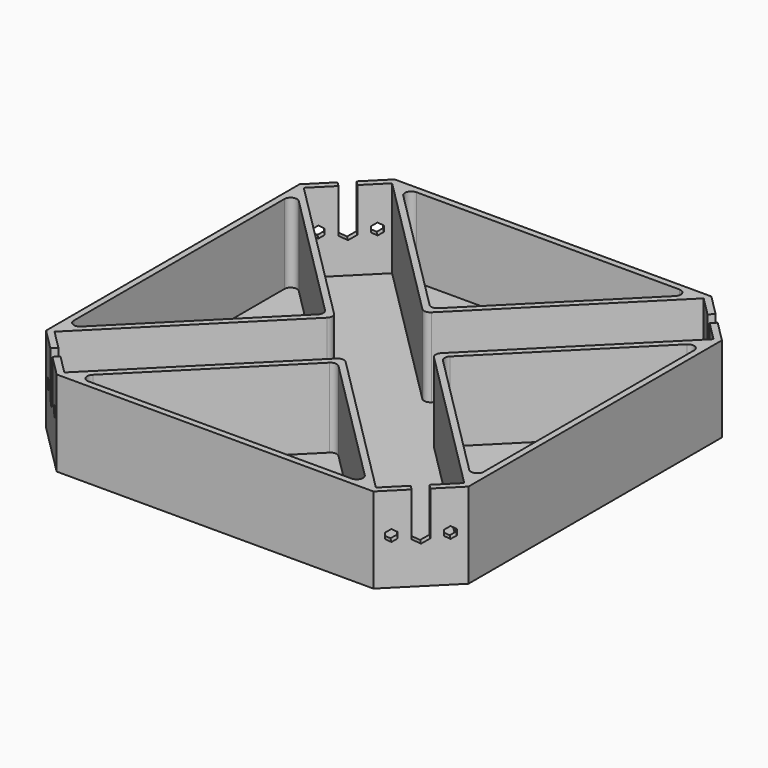
from build123d import *

# Parameters (mm, degrees)
F1_DEPTH  = 1.524
F2_DEPTH  = 19.05
F3_R      = 1.524
F4_R      = 1.524
F5_R      = 1.524
F6_R      = 1.524
F9_DEPTH  = 127
F12_DEPTH = 127
F13_R     = 1.778
F14_DEPTH = 1.524


with BuildPart() as f1:
    # F0 (on Top) → F1 (new body)
    with BuildSketch(Plane.XY):
        Polygon((50.8, 38.1), (38.1, 50.8), (-38.1, 50.8), (-50.8, 38.1), (-50.8, -38.1), (-38.1, -50.8), (38.1, -50.8), (50.8, -38.1), align=None)
        Polygon((-49.276, 35.3134770619), (-49.276, 37.4687385309), (-37.4687385309, 49.276), (-35.3134770619, 49.276), (35.3134770619, 49.276), (37.4687385309, 49.276), (49.276, 37.4687385309), (49.276, 35.3134770619), (49.276, -35.3134770619), (49.276, -37.4687385309), (37.4687385309, -49.276), (35.3134770619, -49.276), (-35.3134770619, -49.276), (-37.4687385309, -49.276), (-49.276, -37.4687385309), (-49.276, -35.3134770619), align=None, mode=Mode.SUBTRACT)
        Polygon((-13.9625229381, 0), (-49.276, 35.3134770619), (-49.276, -35.3134770619), align=None)
        Polygon((-11.8072614691, 0), (-49.276, 37.4687385309), (-49.276, 35.3134770619), (-13.9625229381, 0), (-49.276, -35.3134770619), (-49.276, -37.4687385309), align=None)
        Polygon((-37.4687385309, 49.276), (-49.276, 37.4687385309), (-11.8072614691, 0), (-49.276, -37.4687385309), (-37.4687385309, -49.276), (0, -11.8072614691), (37.4687385309, -49.276), (49.276, -37.4687385309), (11.8072614691, 0), (49.276, 37.4687385309), (37.4687385309, 49.276), (0, 11.8072614691), align=None)
        Polygon((-35.3134770619, 49.276), (-37.4687385309, 49.276), (0, 11.8072614691), (37.4687385309, 49.276), (35.3134770619, 49.276), (0, 13.9625229381), align=None)
        Polygon((49.276, 35.3134770619), (49.276, 37.4687385309), (11.8072614691, 0), (49.276, -37.4687385309), (49.276, -35.3134770619), (13.9625229381, 0), align=None)
        Polygon((35.3134770619, 49.276), (-35.3134770619, 49.276), (0, 13.9625229381), align=None)
        Polygon((0, -11.8072614691), (-37.4687385309, -49.276), (-35.3134770619, -49.276), (0, -13.9625229381), (35.3134770619, -49.276), (37.4687385309, -49.276), align=None)
        Polygon((0, -13.9625229381), (-35.3134770619, -49.276), (35.3134770619, -49.276), align=None)
        Polygon((49.276, -35.3134770619), (49.276, 35.3134770619), (13.9625229381, 0), align=None)
    extrude(amount=-F1_DEPTH)

    # F0 (on Top) → F2 (join)
    with BuildSketch(Plane.XY):
        Polygon((50.8, 38.1), (38.1, 50.8), (-38.1, 50.8), (-50.8, 38.1), (-50.8, -38.1), (-38.1, -50.8), (38.1, -50.8), (50.8, -38.1), align=None)
        Polygon((-49.276, 35.3134770619), (-49.276, 37.4687385309), (-37.4687385309, 49.276), (-35.3134770619, 49.276), (35.3134770619, 49.276), (37.4687385309, 49.276), (49.276, 37.4687385309), (49.276, 35.3134770619), (49.276, -35.3134770619), (49.276, -37.4687385309), (37.4687385309, -49.276), (35.3134770619, -49.276), (-35.3134770619, -49.276), (-37.4687385309, -49.276), (-49.276, -37.4687385309), (-49.276, -35.3134770619), align=None, mode=Mode.SUBTRACT)
        Polygon((-11.8072614691, 0), (-49.276, 37.4687385309), (-49.276, 35.3134770619), (-13.9625229381, 0), (-49.276, -35.3134770619), (-49.276, -37.4687385309), align=None)
        Polygon((-35.3134770619, 49.276), (-37.4687385309, 49.276), (0, 11.8072614691), (37.4687385309, 49.276), (35.3134770619, 49.276), (0, 13.9625229381), align=None)
        Polygon((0, -11.8072614691), (-37.4687385309, -49.276), (-35.3134770619, -49.276), (0, -13.9625229381), (35.3134770619, -49.276), (37.4687385309, -49.276), align=None)
        Polygon((49.276, 35.3134770619), (49.276, 37.4687385309), (11.8072614691, 0), (49.276, -37.4687385309), (49.276, -35.3134770619), (13.9625229381, 0), align=None)
    extrude(amount=F2_DEPTH)

    # F3
    f3_edges = [f1.edges().sort_by_distance(p)[0] for p in [
        (-35.313477, 49.276, 9.525),
        (35.313477, 49.276, 9.525),
        (0, 13.962523, 9.525),
        (0, 11.807261, 9.525),
    ]]
    fillet(f3_edges, radius=F3_R)

    # F4
    f4_edges = [f1.edges().sort_by_distance(p)[0] for p in [
        (-13.962523, 0, 9.525),
        (-11.807261, 0, 9.525),
        (-49.276, 35.313477, 9.525),
        (-49.276, -35.313477, 9.525),
    ]]
    fillet(f4_edges, radius=F4_R)

    # F5
    f5_edges = [f1.edges().sort_by_distance(p)[0] for p in [
        (35.313477, -49.276, 9.525),
        (-35.313477, -49.276, 9.525),
        (0, -13.962523, 9.525),
        (0, -11.807261, 9.525),
    ]]
    fillet(f5_edges, radius=F5_R)

    # F6
    f6_edges = [f1.edges().sort_by_distance(p)[0] for p in [
        (49.276, -35.313477, 9.525),
        (49.276, 35.313477, 9.525),
        (13.962523, 0, 9.525),
        (11.807261, 0, 9.525),
    ]]
    fillet(f6_edges, radius=F6_R)

    # F8 (on offset) → F9 (cut)
    with BuildSketch(Plane(origin=(-44.45, -44.45, 0), x_dir=(0.7071067812, -0.7071067812, 0), z_dir=(-0.7071067812, -0.7071067812, 0))):
        Polygon((-4.3955561211, 8.8357592486), (-4.3955561211, 10.2142407514), (-5.5893561211, 10.9034815027), (-6.7831561211, 10.2142407514), (-6.7831561211, 8.8357592486), (-5.5893561211, 8.1465184973), align=None)
        Polygon((1.7766438789, 8.4984712214), (1.7766438789, 10.5515287786), (-0.0013561211, 11.5780575572), (-1.7793561211, 10.5515287786), (-1.7793561211, 8.4984712214), (-0.0013561211, 7.4719424428), align=None)
        Polygon((-0.0013561211, 11.5780575572), (1.7766438789, 10.5515287786), (1.7766438789, 19.05), (-1.7793561211, 19.05), (-1.7793561211, 10.5515287786), align=None)
        Polygon((6.7804438789, 8.8357592486), (6.7804438789, 10.2142407514), (5.5866438789, 10.9034815027), (4.3928438789, 10.2142407514), (4.3928438789, 8.8357592486), (5.5866438789, 8.1465184973), align=None)
    extrude(amount=-F9_DEPTH, mode=Mode.SUBTRACT)

    # F11 (on offset) → F12 (cut)
    with BuildSketch(Plane(origin=(44.45, -44.45, 0), x_dir=(0.7071067812, 0.7071067812, 0), z_dir=(0.7071067812, -0.7071067812, 0))):
        Polygon((-4.3928438789, 8.8357592486), (-4.3928438789, 10.2142407514), (-5.5866438789, 10.9034815027), (-6.7804438789, 10.2142407514), (-6.7804438789, 8.8357592486), (-5.5866438789, 8.1465184973), align=None)
        Polygon((0.0013561211, 11.5780575572), (1.7793561211, 10.5515287786), (1.7793561211, 19.05), (-1.7766438789, 19.05), (-1.7766438789, 10.5515287786), align=None)
        Polygon((1.7793561211, 8.4984712214), (1.7793561211, 10.5515287786), (0.0013561211, 11.5780575572), (-1.7766438789, 10.5515287786), (-1.7766438789, 8.4984712214), (0.0013561211, 7.4719424428), align=None)
        Polygon((6.7831561211, 8.8357592486), (6.7831561211, 10.2142407514), (5.5893561211, 10.9034815027), (4.3955561211, 10.2142407514), (4.3955561211, 8.8357592486), (5.5893561211, 8.1465184973), align=None)
    extrude(amount=-F12_DEPTH, mode=Mode.SUBTRACT)

    # F13 (on Top) → F14 (cut)
    with BuildSketch(Plane.XY):
        with Locations((-44.45, 0)):
            Circle(F13_R)
        with Locations((0, 44.45)):
            Circle(F13_R)
        with Locations((44.45, 0)):
            Circle(F13_R)
        with Locations((0, -44.45)):
            Circle(F13_R)
    extrude(amount=-F14_DEPTH, mode=Mode.SUBTRACT)


solid = f1.part
